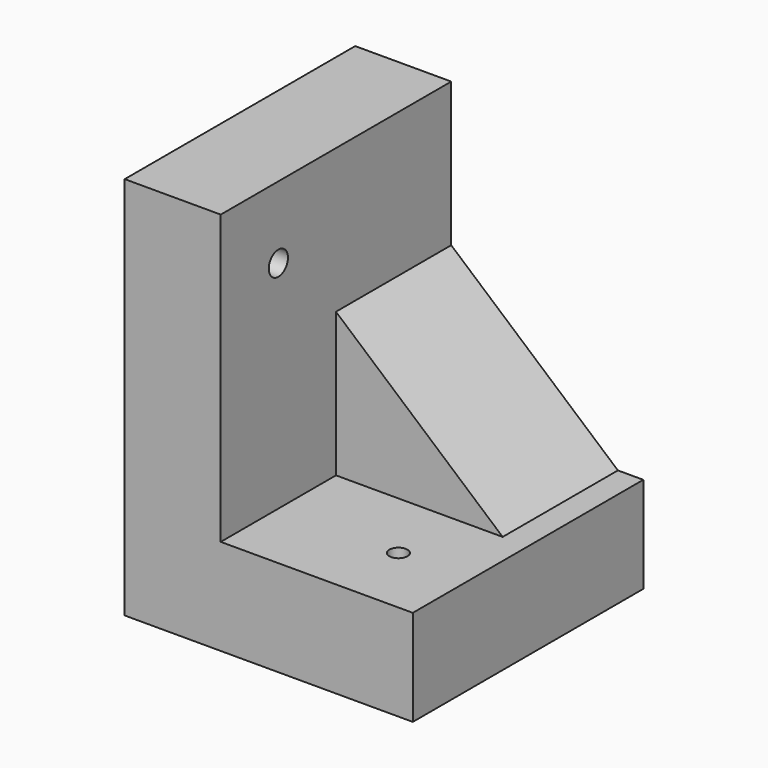
from build123d import *

# Parameters (mm, degrees)
F1_DEPTH = 152.4
F2_W     = 101.6
F2_H     = 76.2
F3_DEPTH = 76.2
F5_DEPTH = 76.2
F7_D     = 9.525
F9_D     = 12.7


with BuildPart() as f1:
    # F0 (on Front) → F1 (new body)
    with BuildSketch(Plane.XZ):
        Polygon((13.440086, 20.999823), (13.440086, 173.399823), (-37.359914, 173.399823), (-37.359914, -29.800177), (115.040086, -29.800177), (115.040086, 20.999823), align=None)
    extrude(amount=F1_DEPTH)

    # F2 (on face) → F3 (join)
    with BuildSketch(Plane.XY.offset(20.999823)):
        with Locations((50.8, -38.1)):
            Rectangle(F2_W, F2_H)
    extrude(amount=F3_DEPTH)

    # F4 (on face) → F5 (cut)
    with BuildSketch(Plane.XZ.offset(76.2)):
        Polygon((101.6, 97.199823), (13.440086, 97.199823), (101.6, 20.999823), align=None)
    extrude(amount=-F5_DEPTH, mode=Mode.SUBTRACT)

    # F7 (through all)
    with Locations(Plane.XY.offset(20.999823)):
        with Locations((76.940086, -114.3)):
            Hole(F7_D / 2)

    # F9 (through all)
    with Locations(Plane.YZ.offset(13.440086)):
        with Locations((-114.3, 135.299823)):
            Hole(F9_D / 2)


solid = f1.part
